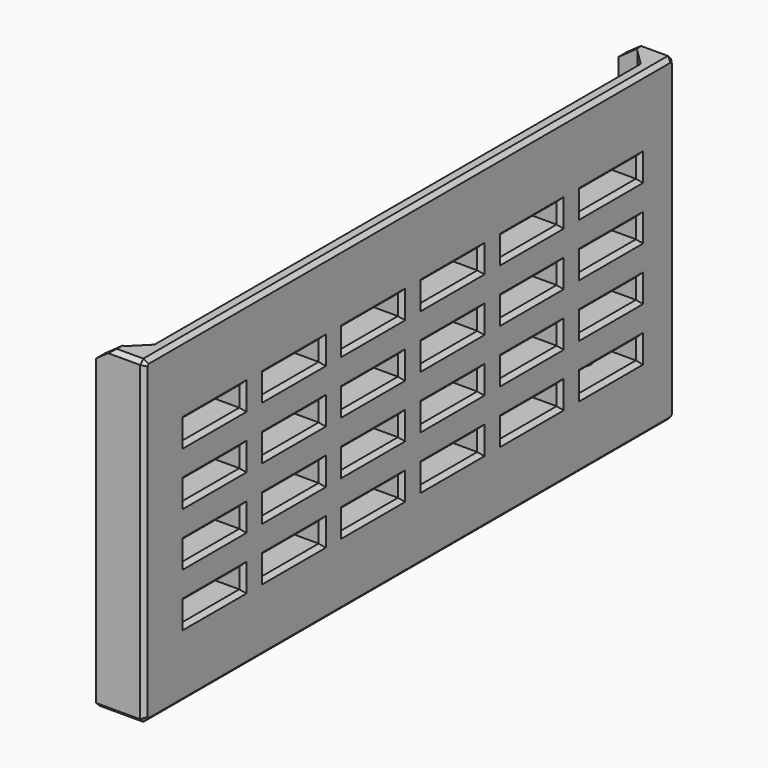
from build123d import *

# Parameters (mm, degrees)
SKETCH004_W                     = 166
SKETCH004_H                     = 80
PAD002_DEPTH                    = 12
SKETCH005_W                     = 160.5
SKETCH005_H                     = 73.5
SKETCH005_W_2                   = 154
SKETCH005_H_2                   = 64
POCKET001_DEPTH                 = 9
SKETCH011_W                     = 18
SKETCH011_H                     = 5
POCKET003_DEPTH                 = 381.3247062524
SKETCH011_LINEARPATTERN_2_W     = 18
SKETCH011_LINEARPATTERN_2_H     = 5
POCKET003_LINEARPATTERN_2_DEPTH = 381.3247062524
SKETCH011_LINEARPATTERN_3_W     = 18
SKETCH011_LINEARPATTERN_3_H     = 5
POCKET003_LINEARPATTERN_3_DEPTH = 381.3247062524
SKETCH011_LINEARPATTERN_4_W     = 18
SKETCH011_LINEARPATTERN_4_H     = 5
POCKET003_LINEARPATTERN_4_DEPTH = 381.3247062524
SKETCH011_LINEARPATTERN_5_W     = 18
SKETCH011_LINEARPATTERN_5_H     = 5
POCKET003_LINEARPATTERN_5_DEPTH = 381.3247062524
SKETCH011_LINEARPATTERN_6_W     = 18
SKETCH011_LINEARPATTERN_6_H     = 5
POCKET003_LINEARPATTERN_6_DEPTH = 381.3247062524
LINEARPATTERN001_COUNT          = 4
LINEARPATTERN001_PITCH          = 13.3333333333
SKETCH024_W                     = 160.5
SKETCH024_H                     = 16.041031
POCKET012_DEPTH                 = 5
SKETCH025_R                     = 1.4
POCKET033_DEPTH                 = 20
SKETCH026_R                     = 1.75
POCKET034_DEPTH                 = 17
SKETCH040_W                     = 32
SKETCH040_H                     = 52
POCKET035_DEPTH                 = 2
PAD021_DEPTH                    = 3
CHAMFER030_SIZE                 = 1
CHAMFER031_SIZE                 = 1
POCKET039_DEPTH                 = 166.001


with BuildPart() as part:
    # Sketch004 → Pad002 (new body)
    with BuildSketch(Plane.YZ):
        Rectangle(SKETCH004_W, SKETCH004_H)
    extrude(amount=PAD002_DEPTH)

    # Sketch005 (on Face5 of Pad002) → Pocket001 (cut)
    with BuildSketch(Plane(origin=(0, 0, 0), x_dir=(0, 1, 0), z_dir=(-1, 0, 0))):
        Rectangle(SKETCH005_W, SKETCH005_H)
        Rectangle(SKETCH005_W_2, SKETCH005_H_2, mode=Mode.SUBTRACT)
    extrude(amount=-POCKET001_DEPTH, mode=Mode.SUBTRACT)

    # Sketch011 (on Face5 of Pocket001) → Pocket003 (cut, through all)
    with BuildSketch(Plane.YZ.offset(12)):
        with Locations((-61, -20.5)):
            Rectangle(SKETCH011_W, SKETCH011_H)
    pocket003 = extrude(amount=-POCKET003_DEPTH, mode=Mode.SUBTRACT)

    # Sketch011 LinearPattern 2 → Pocket003 LinearPattern 2 (cut, through all)
    with BuildSketch(Plane(origin=(12, 24.8, 0), x_dir=(0, 1, 0), z_dir=(1, 0, 0))):
        with Locations((-61, -20.5)):
            Rectangle(SKETCH011_LINEARPATTERN_2_W, SKETCH011_LINEARPATTERN_2_H)
    pocket003_linearpattern_2 = extrude(amount=-POCKET003_LINEARPATTERN_2_DEPTH, mode=Mode.SUBTRACT)

    # Sketch011 LinearPattern 3 → Pocket003 LinearPattern 3 (cut, through all)
    with BuildSketch(Plane(origin=(12, 49.6, 0), x_dir=(0, 1, 0), z_dir=(1, 0, 0))):
        with Locations((-61, -20.5)):
            Rectangle(SKETCH011_LINEARPATTERN_3_W, SKETCH011_LINEARPATTERN_3_H)
    pocket003_linearpattern_3 = extrude(amount=-POCKET003_LINEARPATTERN_3_DEPTH, mode=Mode.SUBTRACT)

    # Sketch011 LinearPattern 4 → Pocket003 LinearPattern 4 (cut, through all)
    with BuildSketch(Plane(origin=(12, 74.4, 0), x_dir=(0, 1, 0), z_dir=(1, 0, 0))):
        with Locations((-61, -20.5)):
            Rectangle(SKETCH011_LINEARPATTERN_4_W, SKETCH011_LINEARPATTERN_4_H)
    pocket003_linearpattern_4 = extrude(amount=-POCKET003_LINEARPATTERN_4_DEPTH, mode=Mode.SUBTRACT)

    # Sketch011 LinearPattern 5 → Pocket003 LinearPattern 5 (cut, through all)
    with BuildSketch(Plane(origin=(12, 99.2, 0), x_dir=(0, 1, 0), z_dir=(1, 0, 0))):
        with Locations((-61, -20.5)):
            Rectangle(SKETCH011_LINEARPATTERN_5_W, SKETCH011_LINEARPATTERN_5_H)
    pocket003_linearpattern_5 = extrude(amount=-POCKET003_LINEARPATTERN_5_DEPTH, mode=Mode.SUBTRACT)

    # Sketch011 LinearPattern 6 → Pocket003 LinearPattern 6 (cut, through all)
    with BuildSketch(Plane(origin=(12, 124, 0), x_dir=(0, 1, 0), z_dir=(1, 0, 0))):
        with Locations((-61, -20.5)):
            Rectangle(SKETCH011_LINEARPATTERN_6_W, SKETCH011_LINEARPATTERN_6_H)
    pocket003_linearpattern_6 = extrude(amount=-POCKET003_LINEARPATTERN_6_DEPTH, mode=Mode.SUBTRACT)

    # LinearPattern001: Pocket003, Pocket003 LinearPattern 2, Pocket003 LinearPattern 3, Pocket003 LinearPattern 4, Pocket003 LinearPattern 5, Pocket003 LinearPattern 6 ×4
    with Locations(*[(0, 0, i * LINEARPATTERN001_PITCH) for i in range(1, LINEARPATTERN001_COUNT)]):
        add(pocket003, mode=Mode.SUBTRACT)
        add(pocket003_linearpattern_2, mode=Mode.SUBTRACT)
        add(pocket003_linearpattern_3, mode=Mode.SUBTRACT)
        add(pocket003_linearpattern_4, mode=Mode.SUBTRACT)
        add(pocket003_linearpattern_5, mode=Mode.SUBTRACT)
        add(pocket003_linearpattern_6, mode=Mode.SUBTRACT)

    # Sketch024 (on Face1 of MultiTransform) → Pocket012 (cut)
    with BuildSketch(Plane(origin=(0, 0, 40), x_dir=(0, -1, 0), z_dir=(0, 0, 1))):
        with Locations((0, 0.9794845)):
            Rectangle(SKETCH024_W, SKETCH024_H)
    extrude(amount=-POCKET012_DEPTH, mode=Mode.SUBTRACT)

    # Sketch025 (on Face1 of Pocket012) → Pocket033 (cut)
    with BuildSketch(Plane(origin=(0, 0, 40), x_dir=(0, -1, 0), z_dir=(0, 0, 1))):
        with Locations((-65, 3.5)):
            Circle(SKETCH025_R)
        with Locations((65, 3.5)):
            Circle(SKETCH025_R)
        with Locations((0, 3.5)):
            Circle(SKETCH025_R)
    extrude(amount=-POCKET033_DEPTH, mode=Mode.SUBTRACT)

    # Sketch026 → Pocket034 (cut)
    with BuildSketch(Plane.YX.offset(40)):
        with Locations((-65, 3.5)):
            Circle(SKETCH026_R)
        with Locations((65, 3.5)):
            Circle(SKETCH026_R)
        with Locations((0, 3.5)):
            Circle(SKETCH026_R)
    extrude(amount=-POCKET034_DEPTH, mode=Mode.SUBTRACT)

    # Sketch040 → Pocket035 (cut)
    with BuildSketch(Plane(origin=(0, 0, 0), x_dir=(0, 1, 0), z_dir=(-1, 0, 0))):
        with Locations((59, 0)):
            Rectangle(SKETCH040_W, SKETCH040_H)
    extrude(amount=-POCKET035_DEPTH, mode=Mode.SUBTRACT)

    # Sketch049 → Pad021 (join)
    with BuildSketch(Plane(origin=(0, 0, 40), x_dir=(0, -1, 0), z_dir=(0, 0, 1))):
        Polygon((-80.25, 4.7573593129), (-76.0073593129, 9), (-80.25, 9), align=None)
    pad021 = extrude(amount=-PAD021_DEPTH)

    # Mirrored006: Pad021 across Sketch049 V_Axis
    add(pad021.mirror(Plane(origin=(0, 0, 40), x_dir=(0, 0, 1), z_dir=(0, -1, 0))))

    # Chamfer030
    chamfer030_edges = [part.edges().sort_by_distance(p)[0] for p in [
        (6, -83, -40),
        (6, 83, -40),
        (6, 83, 40),
        (6, -83, 40),
    ]]
    chamfer(chamfer030_edges, length=CHAMFER030_SIZE)

    # Chamfer031
    chamfer031_edges = [part.edges().sort_by_distance(p)[0] for p in [
        (12, 0, 40),
        (12, -82.5, 39.5),
        (12, 82.5, 39.5),
        (12, -83, 0),
        (12, 83, 0),
        (12, -82.5, -39.5),
        (12, 82.5, -39.5),
        (12, 0, -40),
        (12, 54, 19.5),
        (12, 63, 22),
        (12, 72, 19.5),
        (12, 63, 17),
        (12, 29.2, 19.5),
        (12, 38.2, 22),
        (12, 38.2, 17),
        (12, 47.2, 19.5),
        (12, 54, 6.166667),
        (12, 63, 8.666667),
        (12, 63, 3.666667),
        (12, 72, 6.166667),
        (12, 29.2, 6.166667),
        (12, 38.2, 8.666667),
        (12, 38.2, 3.666667),
        (12, 47.2, 6.166667),
        (12, 4.4, 19.5),
        (12, 13.4, 22),
        (12, 13.4, 17),
        (12, 22.4, 19.5),
        (12, 4.4, 6.166667),
        (12, 13.4, 8.666667),
        (12, 13.4, 3.666667),
        (12, 22.4, 6.166667),
        (12, 54, -7.166667),
        (12, 63, -4.666667),
        (12, 63, -9.666667),
        (12, 72, -7.166667),
        (12, 29.2, -7.166667),
        (12, 38.2, -4.666667),
        (12, 38.2, -9.666667),
        (12, 47.2, -7.166667),
        (12, 54, -20.5),
        (12, 63, -18),
        (12, 63, -23),
        (12, 72, -20.5),
        (12, 29.2, -20.5),
        (12, 38.2, -18),
        (12, 38.2, -23),
        (12, 47.2, -20.5),
        (12, 4.4, -7.166667),
        (12, 13.4, -4.666667),
        (12, 13.4, -9.666667),
        (12, 22.4, -7.166667),
        (12, 4.4, -20.5),
        (12, 13.4, -18),
        (12, 13.4, -23),
        (12, 22.4, -20.5),
        (12, -20.4, 19.5),
        (12, -11.4, 22),
        (12, -11.4, 17),
        (12, -2.4, 19.5),
        (12, -20.4, 6.166667),
        (12, -11.4, 8.666667),
        (12, -11.4, 3.666667),
        (12, -2.4, 6.166667),
        (12, -45.2, 19.5),
        (12, -36.2, 22),
        (12, -36.2, 17),
        (12, -27.2, 19.5),
        (12, -70, 19.5),
        (12, -61, 22),
        (12, -61, 17),
        (12, -52, 19.5),
        (12, -45.2, 6.166667),
        (12, -36.2, 8.666667),
        (12, -36.2, 3.666667),
        (12, -27.2, 6.166667),
        (12, -70, 6.166667),
        (12, -61, 8.666667),
        (12, -61, 3.666667),
        (12, -52, 6.166667),
        (12, -20.4, -7.166667),
        (12, -11.4, -4.666667),
        (12, -11.4, -9.666667),
        (12, -2.4, -7.166667),
        (12, -20.4, -20.5),
        (12, -11.4, -18),
        (12, -11.4, -23),
        (12, -2.4, -20.5),
        (12, -45.2, -7.166667),
        (12, -36.2, -4.666667),
        (12, -36.2, -9.666667),
        (12, -27.2, -7.166667),
        (12, -70, -7.166667),
        (12, -61, -4.666667),
        (12, -61, -9.666667),
        (12, -52, -7.166667),
        (12, -45.2, -20.5),
        (12, -36.2, -18),
        (12, -36.2, -23),
        (12, -27.2, -20.5),
        (12, -70, -20.5),
        (12, -61, -18),
        (12, -61, -23),
        (12, -52, -20.5),
    ]]
    chamfer(chamfer031_edges, length=CHAMFER031_SIZE)

    # Sketch057 (on Face12 of Chamfer031) → Pocket039 (cut, through all)
    with BuildSketch(Plane(origin=(0, -83, 0), x_dir=(0, 0, -1), z_dir=(0, -1, 0))):
        Polygon((-40.834957, 5.547073), (-36.632881, -0.347511), (-44.103237, -0.63932), align=None)
    extrude(amount=-POCKET039_DEPTH, mode=Mode.SUBTRACT)


with BuildPart() as part_1:
    # Body001 placement: moved
    add(part.part.moved(Location((116.5, 0, 0))))


solid = part_1.part
